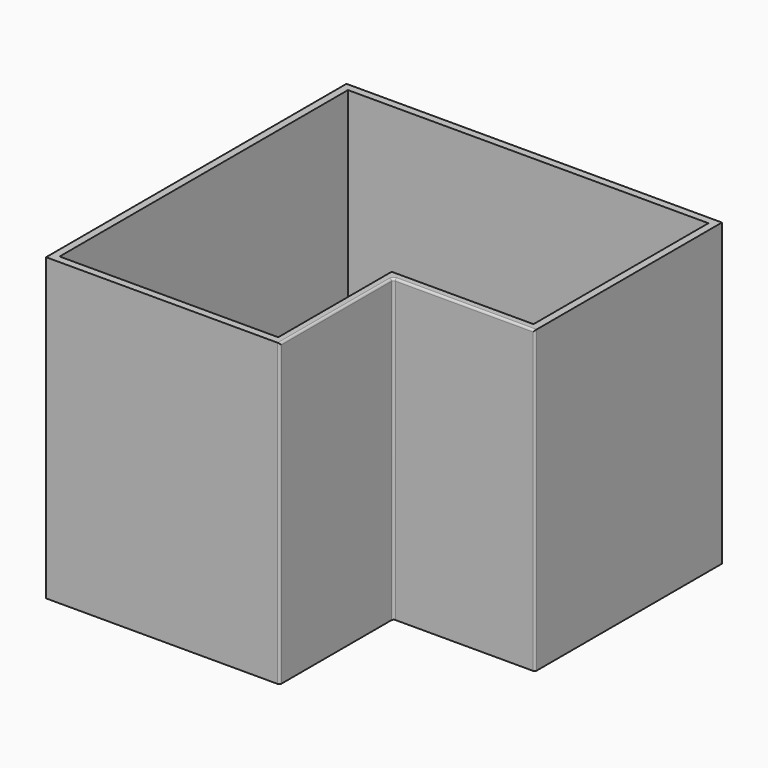
from build123d import *

# Parameters (mm, degrees)
F1_DEPTH = 720
F2_DEPTH = 25
F3_R     = 5


with BuildPart() as f1:
    # F0 (on Top) → F1 (new body)
    with BuildSketch(Plane.XY):
        Polygon((451.088522, 564.315002), (-448.911478, 564.315002), (-448.911478, -335.684998), (111.088522, -335.684998), (111.088522, 4.315002), (451.088522, 4.315002), align=None)
        Polygon((-430.911478, -317.684998), (-430.911478, 546.315002), (433.088522, 546.315002), (433.088522, 22.315002), (93.088522, 22.315002), (93.088522, -317.684998), align=None, mode=Mode.SUBTRACT)
    extrude(amount=F1_DEPTH)

    # F0 (on Top) → F2 (join)
    with BuildSketch(Plane.XY):
        Polygon((433.088522, 546.315002), (-430.911478, 546.315002), (-430.911478, -317.684998), (93.088522, -317.684998), (93.088522, 22.315002), (433.088522, 22.315002), align=None)
    extrude(amount=F2_DEPTH)

    # F3
    f3_edges = [f1.edges().sort_by_distance(p)[0] for p in [
        (451.088522, 4.315002, 360),
        (111.088522, 4.315002, 360),
        (111.088522, -335.684998, 360),
        (281.088522, 4.315002, 720),
        (111.088522, -165.684998, 720),
    ]]
    fillet(f3_edges, radius=F3_R)


solid = f1.part
